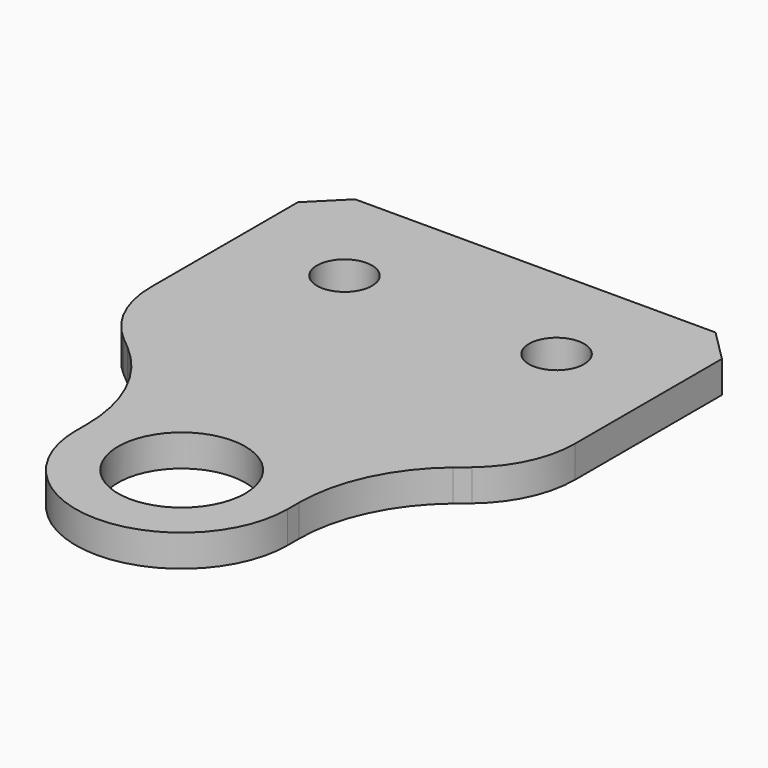
from build123d import *

# Parameters (mm, degrees)
SKETCH058_R     = 6
SKETCH058_R_2   = 2.6
PAD019_DEPTH    = 3
FILLET011_R     = 10
CHAMFER018_SIZE = 3


with BuildPart() as part:
    # Sketch058 → Pad019 (new body)
    with BuildSketch(Plane.XY):
        with BuildLine():
            Line((-20, -10), (-20, 10))
            Line((-20, 10), (20, 10))
            Line((20, 10), (20, -10))
            Line((20, -10), (20, -15))
            Line((15.358186, -18.894945), (20, -15))
            ThreePointArc((15.358186, -18.894945), (11.405383, -24.046337), (10, -30.385611))
            Line((10, -30.385611), (10, -31.7))
            ThreePointArc((-10, -31.7), (0, -41.7), (10, -31.7))
            Line((-10, -30.385611), (-10, -31.7))
            ThreePointArc((-10, -30.385611), (-11.405383, -24.046337), (-15.358186, -18.894945))
            Line((-15.358186, -18.894945), (-20, -15))
            Line((-20, -10), (-20, -15))
        make_face()
        with Locations((0, -31.7)):
            Circle(SKETCH058_R, mode=Mode.SUBTRACT)
        with Locations((-10, 0)):
            Circle(SKETCH058_R_2, mode=Mode.SUBTRACT)
        with Locations((10, 0)):
            Circle(SKETCH058_R_2, mode=Mode.SUBTRACT)
    extrude(amount=PAD019_DEPTH)

    # Fillet011
    fillet011_edges = [part.edges().sort_by_distance(p)[0] for p in [
        (-20, -15, 1.5),
        (20, -15, 1.5),
    ]]
    fillet(fillet011_edges, radius=FILLET011_R)

    # Chamfer018
    chamfer018_edges = [part.edges().sort_by_distance(p)[0] for p in [
        (-20, 10, 1.5),
        (20, 10, 1.5),
    ]]
    chamfer(chamfer018_edges, length=CHAMFER018_SIZE)


with BuildPart() as part_1:
    # Body011 placement: moved
    add(part.part.moved(Location((85, 0, 394))))


solid = part_1.part
